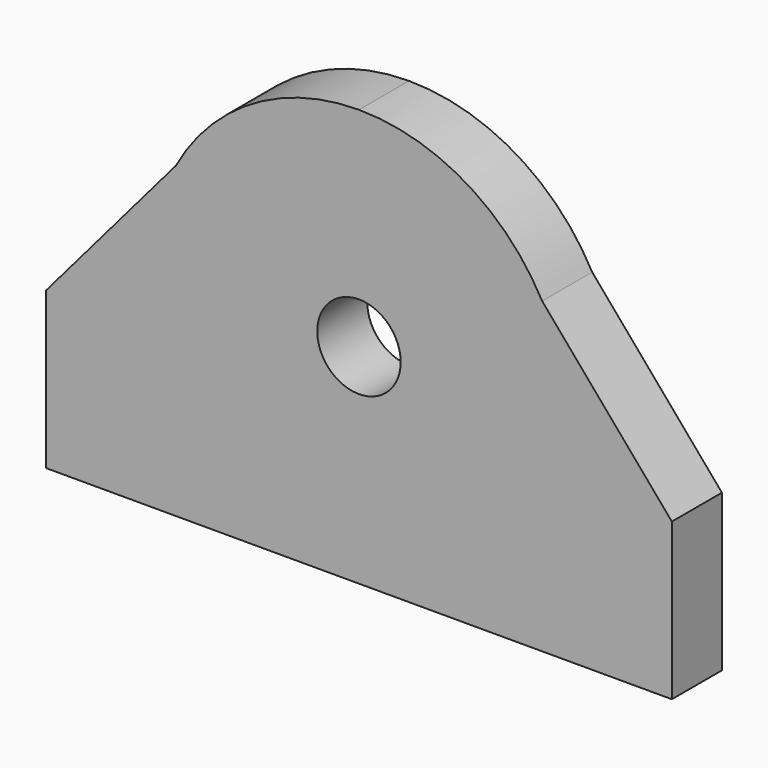
from build123d import *

# Parameters (mm, degrees)
F0_R     = 4
F1_DEPTH = 6


with BuildPart() as f1:
    # F0 (on Front) → F1 (new body)
    with BuildSketch(Plane.XZ):
        with BuildLine():
            Line((-30, 0), (0, 0))
            Line((0, 0), (30, 0))
            Line((30, 0), (30, 15))
            Line((30, 15), (17.56466, 29.56466))
            ThreePointArc((17.56466, 29.56466), (10.215351, 37.194377), (0, 40))
            ThreePointArc((0, 40), (-10.215351, 37.194377), (-17.56466, 29.56466))
            Line((-17.56466, 29.56466), (-30, 15))
            Line((-30, 15), (-30, 0))
        make_face()
        with Locations((0, 20)):
            Circle(F0_R, mode=Mode.SUBTRACT)
    extrude(amount=F1_DEPTH)


solid = f1.part
